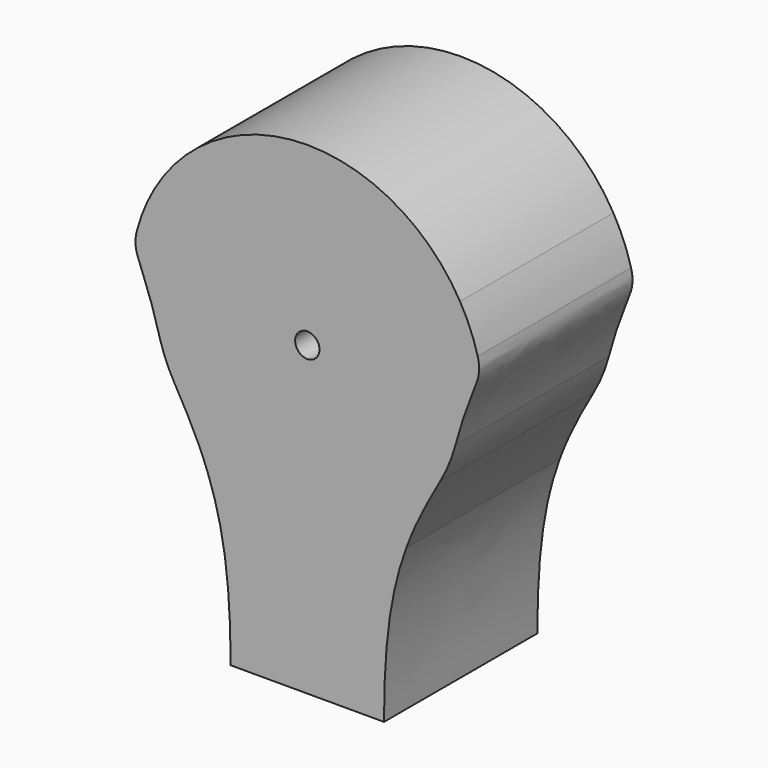
from build123d import *

# Parameters (mm, degrees)
F1_DEPTH = 25
F2_R     = 1.5875
F3_DEPTH = 25
F4_R     = 2.5
F5_DEPTH = 25


with BuildPart() as f1:
    # F0 (on Front) → F1 (new body)
    with BuildSketch(Plane.XZ):
        with BuildLine():
            Line((-17.3205080757, 10), (0, 0))
            Line((0, 0), (17.3205080757, 10))
            ThreePointArc((17.3205080757, 10), (0, 20), (-17.3205080757, 10))
        make_face()
        with BuildLine():
            ThreePointArc((19.918584287, 11.5), (0, 23), (-19.918584287, 11.5))
            Line((-19.918584287, 11.5), (-17.3205080757, 10))
            ThreePointArc((-17.3205080757, 10), (0, 20), (17.3205080757, 10))
            Line((17.3205080757, 10), (19.918584287, 11.5))
        make_face()
        with BuildLine():
            Line((19.3185165258, 5.1763809021), (22.2162940046, 5.9528380374))
            ThreePointArc((22.2162940046, 5.9528380374), (21.2492292478, 8.8017189444), (19.918584287, 11.5))
            Line((19.918584287, 11.5), (17.3205080757, 10))
            ThreePointArc((17.3205080757, 10), (18.4775906502, 7.6536686473), (19.3185165258, 5.1763809021))
        make_face()
        with BuildLine():
            Line((17.3205080757, 10), (0, 0))
            Line((0, 0), (19.3185165258, 5.1763809021))
            ThreePointArc((19.3185165258, 5.1763809021), (18.4775906502, 7.6536686473), (17.3205080757, 10))
        make_face()
        with BuildLine():
            Line((0, 0), (19.3185165258, -5.1763809021))
            ThreePointArc((19.3185165258, -5.1763809021), (19.8288972275, -2.6105238444), (20, 0))
            ThreePointArc((20, 0), (19.8288972275, 2.6105238444), (19.3185165258, 5.1763809021))
            Line((19.3185165258, 5.1763809021), (0, 0))
        make_face()
        with BuildLine():
            add(Edge.make_bspline(
                [(19.3185165258, -5.1763809021), (21.3890688866, 2.5510257083), (22.99275114, 3.0550605585), (22.2162940046, 5.9528380374)],
                knots=[0, 0, 0, 0, 11.5002881928, 11.5002881928, 11.5002881928, 11.5002881928], degree=3))
            Line((22.2162940046, 5.9528380374), (19.3185165258, 5.1763809021))
            ThreePointArc((19.3185165258, 5.1763809021), (19.8288972275, 2.6105238444), (20, 0))
            ThreePointArc((20, 0), (19.8288972275, -2.6105238444), (19.3185165258, -5.1763809021))
        make_face()
        with BuildLine():
            Line((0, 0), (17.3205080757, -10))
            ThreePointArc((17.3205080757, -10), (18.4775906502, -7.6536686473), (19.3185165258, -5.1763809021))
            Line((19.3185165258, -5.1763809021), (0, 0))
        make_face()
        with BuildLine():
            ThreePointArc((-17.3205080757, -10), (0, -20), (17.3205080757, -10))
            Line((17.3205080757, -10), (0, 0))
            Line((0, 0), (-17.3205080757, 10))
            ThreePointArc((-17.3205080757, 10), (-19.8288972275, 2.6105238444), (-19.3185165258, -5.1763809021))
            ThreePointArc((-19.3185165258, -5.1763809021), (-18.4775906502, -7.6536686473), (-17.3205080757, -10))
        make_face()
        with BuildLine():
            Line((-10, -40), (10, -40))
            add(Edge.make_bspline(
                [(12.9220055275, -19.0268697674), (10.9430027849, -24.3950055717), (10, -30.4378356334), (10, -40)],
                knots=[11.1947815786, 11.1947815786, 11.1947815786, 11.1947815786, 30.8802499745, 30.8802499745, 30.8802499745, 30.8802499745], degree=3))
            ThreePointArc((12.9220055275, -19.0268697674), (0, -23), (-12.9220055275, -19.0268697674))
            add(Edge.make_bspline(
                [(-12.9220055275, -19.0268697674), (-10.9430027849, -24.3950055717), (-10, -30.4378356334), (-10, -40)],
                knots=[11.1947815786, 11.1947815786, 11.1947815786, 11.1947815786, 30.8802499745, 30.8802499745, 30.8802499745, 30.8802499745], degree=3))
        make_face()
        with BuildLine():
            ThreePointArc((-12.9220055275, -19.0268697674), (0, -23), (12.9220055275, -19.0268697674))
            add(Edge.make_bspline(
                [(17.3205080757, -10), (15.5078961979, -13.1395358667), (14.0474297746, -15.9741048241), (12.9220055275, -19.0268697674)],
                knots=[0, 0, 0, 0, 11.1947815786, 11.1947815786, 11.1947815786, 11.1947815786], degree=3))
            ThreePointArc((17.3205080757, -10), (0, -20), (-17.3205080757, -10))
            add(Edge.make_bspline(
                [(-17.3205080757, -10), (-15.5078961979, -13.1395358667), (-14.0474297746, -15.9741048241), (-12.9220055275, -19.0268697674)],
                knots=[0, 0, 0, 0, 11.1947815786, 11.1947815786, 11.1947815786, 11.1947815786], degree=3))
        make_face()
        with BuildLine():
            ThreePointArc((-19.918584287, 11.5), (-21.2492292478, 8.8017189444), (-22.2162940046, 5.9528380374))
            add(Edge.make_bspline(
                [(-19.3185165258, -5.1763809021), (-21.3890688866, 2.5510257083), (-22.99275114, 3.0550605585), (-22.2162940046, 5.9528380374)],
                knots=[0, 0, 0, 0, 11.5002881928, 11.5002881928, 11.5002881928, 11.5002881928], degree=3))
            ThreePointArc((-19.3185165258, -5.1763809021), (-19.8288972275, 2.6105238444), (-17.3205080757, 10))
            Line((-17.3205080757, 10), (-19.918584287, 11.5))
        make_face()
    extrude(amount=F1_DEPTH)

    # F2 (on face) → F3 (cut)
    with BuildSketch(Plane.XZ.offset(25)):
        Circle(F2_R)
    extrude(amount=-F3_DEPTH, mode=Mode.SUBTRACT)

    # F4 (on face) → F5 (cut)
    with BuildSketch(Plane(origin=(0, 0, -40), x_dir=(1, 0, 0), z_dir=(0, 0, -1))):
        with Locations((0, 10)):
            Circle(F4_R)
    extrude(amount=-F5_DEPTH, mode=Mode.SUBTRACT)


solid = f1.part
